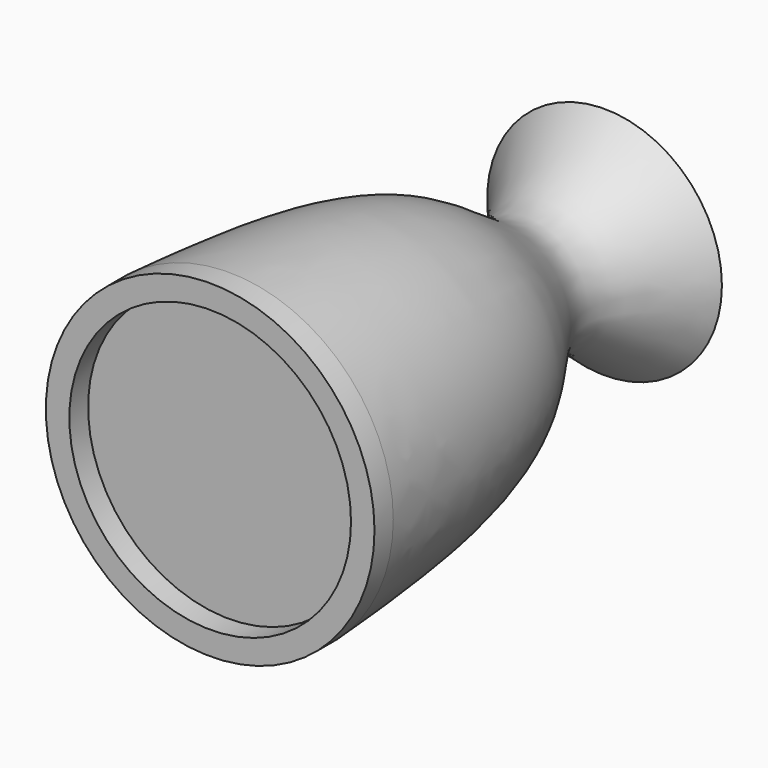
from build123d import *

# Parameters (mm, degrees)
F2_T = -2.5


with BuildPart() as f1:
    # F0 (on Top) → F1 (revolve)
    with BuildSketch(Plane.XY):
        with BuildLine():
            add(Edge.make_bspline(
                [(25, 80.1539123058), (18.8296563793, 72.8638140322), (6.3958253179, 58.1735705177), (31.0256389858, 36.9451326056), (33.5061450744, 1.5001976258), (35, -19.8460876942)],
                knots=[0, 0, 0, 0, 0.2815302014, 0.5673102145, 1, 1, 1, 1], degree=3))
            Line((25, 80.1539123058), (0, 80.1539123058))
            Line((0, 80.1539123058), (0, -19.8460876942))
            Line((0, -19.8460876942), (30, -19.8460876942))
            Line((30, -19.8460876942), (30, -24.8460876942))
            Line((30, -24.8460876942), (35, -24.8460876942))
            Line((35, -24.8460876942), (35, -19.8460876942))
        make_face()
    revolve(axis=Axis((0, 30.1539123058, 0), (0, -1, 0)))

    # F2
    f2_openings = [f1.faces().sort_by_distance(p)[0] for p in [
        (0, 80.153912, 0),
    ]]
    offset(amount=F2_T, openings=f2_openings, kind=Kind.INTERSECTION)


solid = f1.part
